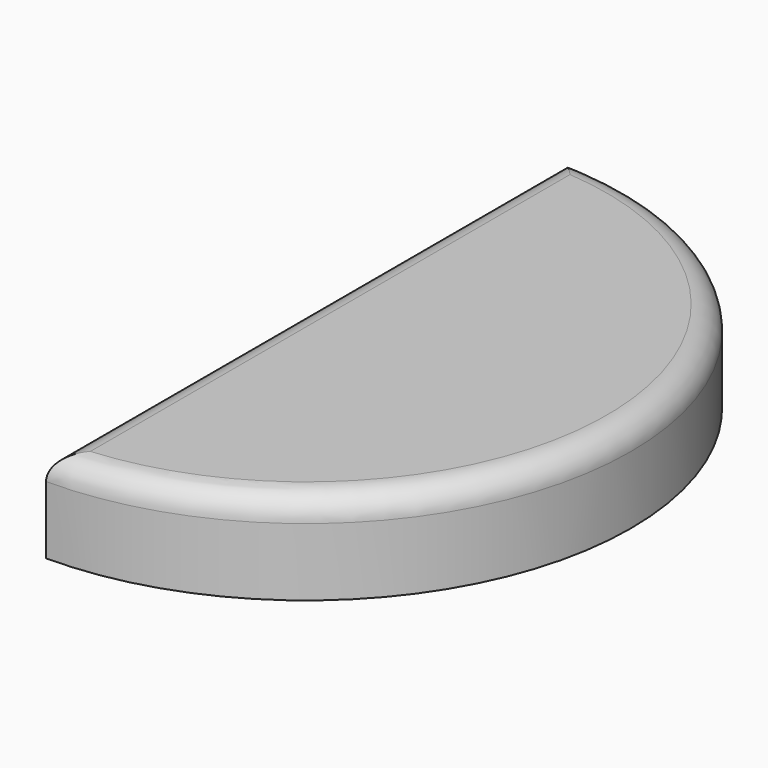
from build123d import *

# Parameters (mm, degrees)
F1_DEPTH = 19
F2_R     = 5


with BuildPart() as f1:
    # F0 (on Top) → F1 (new body)
    with BuildSketch(Plane.XY):
        with BuildLine():
            Line((0, 67.251584), (0, -67.251584))
            ThreePointArc((0, -67.251584), (67.251584, 0), (0, 67.251584))
        make_face()
    extrude(amount=F1_DEPTH)

    # F2
    f2_edges = [f1.edges().sort_by_distance(p)[0] for p in [
        (0, 0, 19),
        (67.251584, 0, 19),
    ]]
    fillet(f2_edges, radius=F2_R)


solid = f1.part
